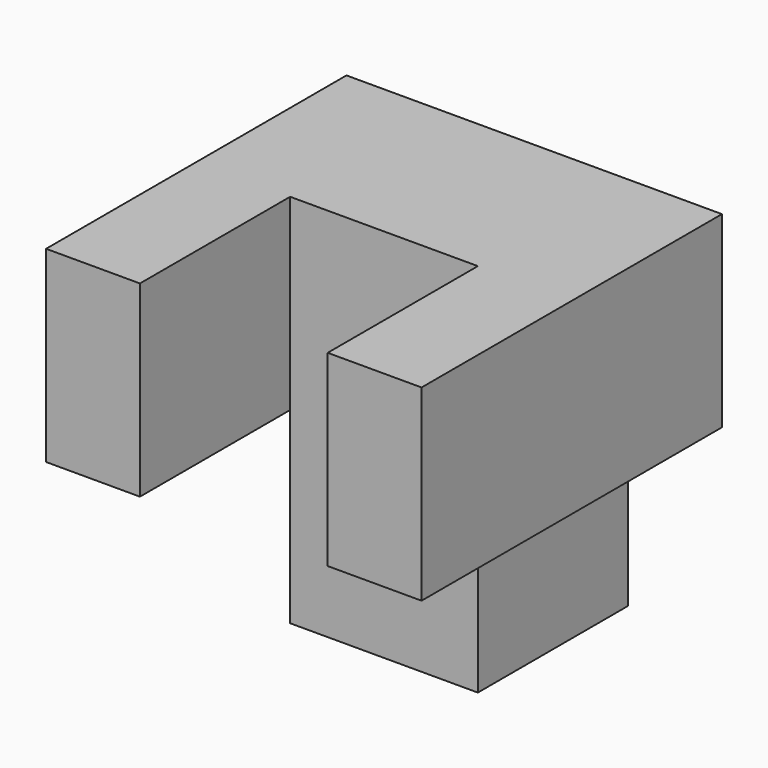
from build123d import *

# Parameters (mm, degrees)
F0_W     = 101.6
F0_H     = 50.8
F1_DEPTH = 50.8
F2_W     = 25.4
F2_H     = 101.6
F3_DEPTH = 50.8
F4_W     = 50.800001
F4_H     = 50.8
F5_DEPTH = 50.8


with BuildPart() as f1:
    # F0 (on Front) → F1 (new body)
    with BuildSketch(Plane.XZ):
        with Locations((-7.620003, 52.950555)):
            Rectangle(F0_W, F0_H)
    extrude(amount=F1_DEPTH)

    # F2 (on face) → F3 (join)
    with BuildSketch(Plane.XY.offset(78.350555)):
        with Locations((-45.720003, -50.8)):
            Rectangle(F2_W, F2_H)
        with Locations((30.479997, -50.8)):
            Rectangle(F2_W, F2_H)
    extrude(amount=-F3_DEPTH)

    # F4 (on face) → F5 (join)
    with BuildSketch(Plane(origin=(0, 0, 27.550555), x_dir=(1, 0, 0), z_dir=(0, 0, -1))):
        with Locations((-7.620002, 25.4)):
            Rectangle(F4_W, F4_H)
    extrude(amount=F5_DEPTH)


solid = f1.part
